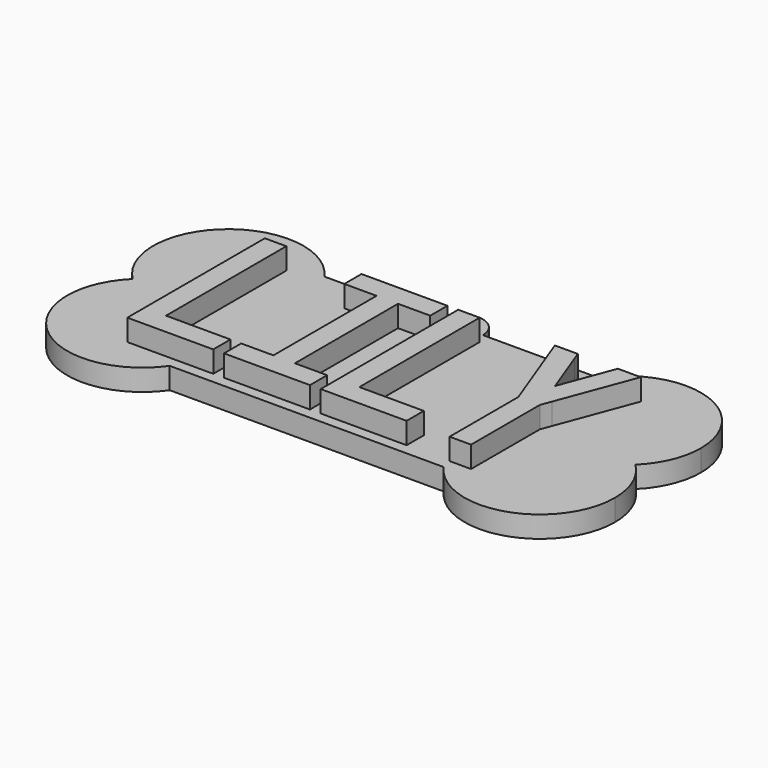
from build123d import *

# Parameters (mm, degrees)
F0_W     = 15
F0_H     = 35
F0_W_2   = 5
F0_H_2   = 5
F0_W_3   = 7.5
F0_H_3   = 30
F1_DEPTH = 5
F2_DEPTH = 10


with BuildPart() as f1:
    # F0 (on Top) → F1 (new body)
    with BuildSketch(Plane.XY):
        with BuildLine():
            Line((-90, 27.3205080757), (-90, 42.5))
            Line((-90, 42.5), (-85, 42.5))
            Line((-85, 42.5), (-76.6886116992, 42.5))
            ThreePointArc((-76.6886116992, 42.5), (-77.3619060553, 43.7799835832), (-78.1385933837, 45))
            Line((-78.1385933837, 45), (-92.5, 45))
            Line((-92.5, 45), (-92.5, 27.5))
            ThreePointArc((-92.5, 27.5), (-91.2467824061, 27.4550693399), (-90, 27.3205080757))
        make_face()
        with BuildLine():
            ThreePointArc((-78.1385933837, 45), (-77.3619060553, 43.7799835832), (-76.6886116992, 42.5))
            Line((-76.6886116992, 42.5), (-70, 42.5))
            Line((-70, 42.5), (-70, 7.5))
            Line((-70, 7.5), (-70, 2.5))
            Line((-70, 2.5), (-76.6886116992, 2.5))
            ThreePointArc((-76.6886116992, 2.5), (-77.3619060553, 1.2200164168), (-78.1385933837, 0))
            Line((-78.1385933837, 0), (-14.3614066163, 0))
            ThreePointArc((-14.3614066163, 0), (-15.1380939447, 1.2200164168), (-15.8113883008, 2.5))
            Line((-15.8113883008, 2.5), (-22.5, 2.5))
            Line((-22.5, 2.5), (-22.5, 22.5))
            Line((-22.5, 22.5), (-22.5, 42.5))
            Line((-22.5, 42.5), (-17.1599976592, 42.5))
            Line((-17.1599976592, 42.5), (-15.8113883008, 42.5))
            ThreePointArc((-15.8113883008, 42.5), (-15.1380939447, 43.7799835832), (-14.3614066163, 45))
            Line((-14.3614066163, 45), (-41.25, 45))
            ThreePointArc((-41.25, 45), (-41.4203708686, 43.7059047745), (-41.9198729811, 42.5))
            Line((-41.9198729811, 42.5), (-40, 42.5))
            Line((-40, 42.5), (-25, 42.5))
            Line((-25, 42.5), (-25, 7.5))
            Line((-25, 7.5), (-25, 2.5))
            Line((-25, 2.5), (-40, 2.5))
            Line((-40, 2.5), (-45, 2.5))
            Line((-45, 2.5), (-45, 7.5))
            Line((-45, 7.5), (-45, 40.1587708172))
            ThreePointArc((-45, 40.1587708172), (-46.25, 40), (-47.5, 40.1587708172))
            Line((-47.5, 40.1587708172), (-47.5, 37.5))
            Line((-47.5, 37.5), (-47.5, 7.5))
            Line((-47.5, 7.5), (-47.5, 2.5))
            Line((-47.5, 2.5), (-67.5, 2.5))
            Line((-67.5, 2.5), (-67.5, 7.5))
            Line((-67.5, 7.5), (-67.5, 37.5))
            Line((-67.5, 37.5), (-67.5, 42.5))
            Line((-67.5, 42.5), (-50.5801270189, 42.5))
            ThreePointArc((-50.5801270189, 42.5), (-51.0796291314, 43.7059047745), (-51.25, 45))
            Line((-51.25, 45), (-78.1385933837, 45))
        make_face()
        with BuildLine():
            Line((-90, 7.5), (-90, 17.6794919243))
            ThreePointArc((-90, 17.6794919243), (-91.2467824061, 17.5449306601), (-92.5, 17.5))
            Line((-92.5, 17.5), (-92.5, 0))
            Line((-92.5, 0), (-78.1385933837, 0))
            ThreePointArc((-78.1385933837, 0), (-77.3619060553, 1.2200164168), (-76.6886116992, 2.5))
            Line((-76.6886116992, 2.5), (-85, 2.5))
            Line((-85, 2.5), (-90, 2.5))
            Line((-90, 2.5), (-90, 7.5))
        make_face()
        with BuildLine():
            ThreePointArc((-104.7474487139, 22.5), (-99.1143782777, 26.201851746), (-92.5, 27.5))
            Line((-92.5, 27.5), (-92.5, 45))
            Line((-92.5, 45), (-78.1385933837, 45))
            ThreePointArc((-78.1385933837, 45), (-103.7995444379, 48.3630196998), (-104.7474487139, 22.5))
        make_face()
        with BuildLine():
            Line((-92.5, 17.5), (-92.5, 27.5))
            ThreePointArc((-92.5, 27.5), (-99.1143782777, 26.201851746), (-104.7474487139, 22.5))
            ThreePointArc((-104.7474487139, 22.5), (-99.1143782777, 18.798148254), (-92.5, 17.5))
        make_face()
        with BuildLine():
            Line((-92.5, 0), (-92.5, 17.5))
            ThreePointArc((-92.5, 17.5), (-99.1143782777, 18.798148254), (-104.7474487139, 22.5))
            ThreePointArc((-104.7474487139, 22.5), (-103.7995444379, -3.3630196998), (-78.1385933837, 0))
            Line((-78.1385933837, 0), (-92.5, 0))
        make_face()
        with BuildLine():
            ThreePointArc((-41.25, 45), (-46.25, 50), (-51.25, 45))
            Line((-51.25, 45), (-48.75, 45))
            ThreePointArc((-48.75, 45), (-46.25, 47.5), (-43.75, 45))
            Line((-43.75, 45), (-41.25, 45))
        make_face()
        with BuildLine():
            Line((-48.75, 45), (-51.25, 45))
            ThreePointArc((-51.25, 45), (-51.0796291314, 43.7059047745), (-50.5801270189, 42.5))
            Line((-50.5801270189, 42.5), (-47.5, 42.5))
            Line((-47.5, 42.5), (-47.5, 40.1587708172))
            ThreePointArc((-47.5, 40.1587708172), (-46.25, 40), (-45, 40.1587708172))
            Line((-45, 40.1587708172), (-45, 42.5))
            Line((-45, 42.5), (-41.9198729811, 42.5))
            ThreePointArc((-41.9198729811, 42.5), (-41.4203708686, 43.7059047745), (-41.25, 45))
            Line((-41.25, 45), (-43.75, 45))
            ThreePointArc((-43.75, 45), (-46.25, 42.5), (-48.75, 45))
        make_face()
        with BuildLine():
            ThreePointArc((-15.8113883008, 2.5), (-15.1380939447, 1.2200164168), (-14.3614066163, 0))
            Line((-14.3614066163, 0), (0, 0))
            Line((0, 0), (0, 17.5))
            ThreePointArc((0, 17.5), (-1.2532175939, 17.5449306601), (-2.5, 17.6794919243))
            Line((-2.5, 17.6794919243), (-2.5, 2.5))
            Line((-2.5, 2.5), (-10, 2.5))
            Line((-10, 2.5), (-15, 2.5))
            Line((-15, 2.5), (-15.8113883008, 2.5))
        make_face()
        with BuildLine():
            Line((0, 0), (-14.3614066163, 0))
            ThreePointArc((-14.3614066163, 0), (5.2404858655, -6.6969251029), (17.5, 10))
            ThreePointArc((17.5, 10), (16.1335109709, 16.7793675039), (12.2474487139, 22.5))
            ThreePointArc((12.2474487139, 22.5), (6.6143782777, 18.798148254), (0, 17.5))
            Line((0, 17.5), (0, 0))
        make_face()
        with BuildLine():
            ThreePointArc((17.5, 35), (5.2404858655, 51.6969251029), (-14.3614066163, 45))
            Line((-14.3614066163, 45), (0, 45))
            Line((0, 45), (0, 27.5))
            ThreePointArc((0, 27.5), (6.6143782777, 26.201851746), (12.2474487139, 22.5))
            ThreePointArc((12.2474487139, 22.5), (16.1335109709, 28.2206324961), (17.5, 35))
        make_face()
        with BuildLine():
            Line((0, 45), (-14.3614066163, 45))
            ThreePointArc((-14.3614066163, 45), (-15.1380939447, 43.7799835832), (-15.8113883008, 42.5))
            Line((-15.8113883008, 42.5), (-7.8400023408, 42.5))
            Line((-7.8400023408, 42.5), (-2.5, 42.5))
            Line((-2.5, 42.5), (-2.5, 27.3205080757))
            ThreePointArc((-2.5, 27.3205080757), (-1.2532175939, 27.4550693399), (0, 27.5))
            Line((0, 27.5), (0, 45))
        make_face()
        with BuildLine():
            Line((0, 27.5), (0, 17.5))
            ThreePointArc((0, 17.5), (6.6143782777, 18.798148254), (12.2474487139, 22.5))
            ThreePointArc((12.2474487139, 22.5), (6.6143782777, 26.201851746), (0, 27.5))
        make_face()
        with BuildLine():
            ThreePointArc((-2.5, 17.6794919243), (-1.2532175939, 17.5449306601), (0, 17.5))
            Line((0, 17.5), (0, 27.5))
            ThreePointArc((0, 27.5), (-1.2532175939, 27.4550693399), (-2.5, 27.3205080757))
            Line((-2.5, 27.3205080757), (-2.5, 22.5))
            Line((-2.5, 22.5), (-2.5, 17.6794919243))
        make_face()
        with BuildLine():
            Line((-2.5, 2.5), (-2.5, 17.6794919243))
            ThreePointArc((-2.5, 17.6794919243), (-6.4227385407, 18.7212276372), (-10, 20.6385933837))
            Line((-10, 20.6385933837), (-10, 2.5))
            Line((-10, 2.5), (-2.5, 2.5))
        make_face()
        with BuildLine():
            ThreePointArc((-10, 20.6385933837), (-6.4227385407, 18.7212276372), (-2.5, 17.6794919243))
            Line((-2.5, 17.6794919243), (-2.5, 22.5))
            Line((-2.5, 22.5), (-10, 22.5))
            Line((-10, 22.5), (-10, 20.6385933837))
        make_face()
        with BuildLine():
            ThreePointArc((-9.0767310941, 24.9620504158), (-5.9072630159, 26.4728335043), (-2.5, 27.3205080757))
            Line((-2.5, 27.3205080757), (-2.5, 42.5))
            Line((-2.5, 42.5), (-9.0767310941, 24.9620504158))
        make_face()
        with BuildLine():
            Line((-2.5, 22.5), (-2.5, 27.3205080757))
            ThreePointArc((-2.5, 27.3205080757), (-5.9072630159, 26.4728335043), (-9.0767310941, 24.9620504158))
            Line((-9.0767310941, 24.9620504158), (-10, 22.5))
            Line((-10, 22.5), (-2.5, 22.5))
        make_face()
        with BuildLine():
            ThreePointArc((-9.0767310941, 24.9620504158), (-10.7329205803, 23.822243516), (-12.2474487139, 22.5))
            Line((-12.2474487139, 22.5), (-10, 22.5))
            Line((-10, 22.5), (-9.0767310941, 24.9620504158))
        make_face()
        with BuildLine():
            Line((-10, 22.5), (-12.2474487139, 22.5))
            ThreePointArc((-12.2474487139, 22.5), (-11.1625916443, 21.5223686138), (-10, 20.6385933837))
            Line((-10, 20.6385933837), (-10, 22.5))
        make_face()
        with BuildLine():
            Line((-15, 19.0138781887), (-15, 2.5))
            Line((-15, 2.5), (-10, 2.5))
            Line((-10, 2.5), (-10, 20.6385933837))
            ThreePointArc((-10, 20.6385933837), (-11.1625916443, 21.5223686138), (-12.2474487139, 22.5))
            ThreePointArc((-12.2474487139, 22.5), (-13.7347779988, 20.8446241671), (-15, 19.0138781887))
        make_face()
        with BuildLine():
            Line((-15, 22.5), (-15, 19.0138781887))
            ThreePointArc((-15, 19.0138781887), (-13.7347779988, 20.8446241671), (-12.2474487139, 22.5))
            Line((-12.2474487139, 22.5), (-15, 22.5))
        make_face()
        with BuildLine():
            ThreePointArc((-15, 19.0138781887), (-17.4789145963, 10.8588041315), (-15.8113883008, 2.5))
            Line((-15.8113883008, 2.5), (-15, 2.5))
            Line((-15, 2.5), (-15, 19.0138781887))
        make_face()
        with BuildLine():
            Line((-22.5, 2.5), (-15.8113883008, 2.5))
            ThreePointArc((-15.8113883008, 2.5), (-17.4789145963, 10.8588041315), (-15, 19.0138781887))
            Line((-15, 19.0138781887), (-15, 22.5))
            Line((-15, 22.5), (-22.5, 22.5))
            Line((-22.5, 22.5), (-22.5, 2.5))
        make_face()
        Polygon((-22.5, 42.5), (-22.5, 22.5), (-15, 22.5), align=None)
        with BuildLine():
            Line((-2.5, 42.5), (-7.8400023408, 42.5))
            Line((-7.8400023408, 42.5), (-12.5, 30.0733395755))
            Line((-12.5, 30.0733395755), (-16.5165078198, 40.7840270951))
            ThreePointArc((-16.5165078198, 40.7840270951), (-17.0416463575, 31.0210190466), (-12.2474487139, 22.5))
            ThreePointArc((-12.2474487139, 22.5), (-10.7329205803, 23.822243516), (-9.0767310941, 24.9620504158))
            Line((-9.0767310941, 24.9620504158), (-2.5, 42.5))
        make_face()
        with BuildLine():
            Line((-16.5165078198, 40.7840270951), (-17.1599976592, 42.5))
            Line((-17.1599976592, 42.5), (-22.5, 42.5))
            Line((-22.5, 42.5), (-15, 22.5))
            Line((-15, 22.5), (-12.2474487139, 22.5))
            ThreePointArc((-12.2474487139, 22.5), (-17.0416463575, 31.0210190466), (-16.5165078198, 40.7840270951))
        make_face()
        with BuildLine():
            Line((-7.8400023408, 42.5), (-15.8113883008, 42.5))
            ThreePointArc((-15.8113883008, 42.5), (-16.1867031124, 41.6513639466), (-16.5165078198, 40.7840270951))
            Line((-16.5165078198, 40.7840270951), (-12.5, 30.0733395755))
            Line((-12.5, 30.0733395755), (-7.8400023408, 42.5))
        make_face()
        with BuildLine():
            ThreePointArc((-16.5165078198, 40.7840270951), (-16.1867031124, 41.6513639466), (-15.8113883008, 42.5))
            Line((-15.8113883008, 42.5), (-17.1599976592, 42.5))
            Line((-17.1599976592, 42.5), (-16.5165078198, 40.7840270951))
        make_face()
        with Locations((-32.5, 25)):
            Rectangle(F0_W, F0_H)
        with BuildLine():
            ThreePointArc((-45, 40.1587708172), (-43.224311168, 41.0193961398), (-41.9198729811, 42.5))
            Line((-41.9198729811, 42.5), (-45, 42.5))
            Line((-45, 42.5), (-45, 40.1587708172))
        make_face()
        with Locations((-42.5, 5)):
            Rectangle(F0_W_2, F0_H_2)
        with Locations((-32.5, 5)):
            Rectangle(F0_W, F0_H_2)
        Polygon((-60, 7.5), (-67.5, 7.5), (-67.5, 2.5), (-47.5, 2.5), (-47.5, 7.5), (-55, 7.5), align=None)
        with Locations((-51.25, 22.5)):
            Rectangle(F0_W_3, F0_H_3)
        with Locations((-57.5, 22.5)):
            Rectangle(F0_W_2, F0_H_3)
        with Locations((-63.75, 22.5)):
            Rectangle(F0_W_3, F0_H_3)
        with BuildLine():
            ThreePointArc((-47.5, 40.1587708172), (-49.275688832, 41.0193961398), (-50.5801270189, 42.5))
            Line((-50.5801270189, 42.5), (-67.5, 42.5))
            Line((-67.5, 42.5), (-67.5, 37.5))
            Line((-67.5, 37.5), (-60, 37.5))
            Line((-60, 37.5), (-55, 37.5))
            Line((-55, 37.5), (-47.5, 37.5))
            Line((-47.5, 37.5), (-47.5, 40.1587708172))
        make_face()
        with BuildLine():
            Line((-47.5, 42.5), (-50.5801270189, 42.5))
            ThreePointArc((-50.5801270189, 42.5), (-49.275688832, 41.0193961398), (-47.5, 40.1587708172))
            Line((-47.5, 40.1587708172), (-47.5, 42.5))
        make_face()
        with BuildLine():
            Line((-70, 42.5), (-76.6886116992, 42.5))
            ThreePointArc((-76.6886116992, 42.5), (-75.4273713907, 38.843872054), (-75, 35))
            ThreePointArc((-75, 35), (-76.3664890291, 28.2206324961), (-80.2525512861, 22.5))
            ThreePointArc((-80.2525512861, 22.5), (-76.3664890291, 16.7793675039), (-75, 10))
            ThreePointArc((-75, 10), (-75.0449306601, 8.7467824061), (-75.1794919243, 7.5))
            Line((-75.1794919243, 7.5), (-70, 7.5))
            Line((-70, 7.5), (-70, 42.5))
        make_face()
        with BuildLine():
            Line((-76.6886116992, 42.5), (-85, 42.5))
            Line((-85, 42.5), (-85, 25.8113883008))
            ThreePointArc((-85, 25.8113883008), (-82.4884189162, 24.3533356473), (-80.2525512861, 22.5))
            ThreePointArc((-80.2525512861, 22.5), (-76.3664890291, 28.2206324961), (-75, 35))
            ThreePointArc((-75, 35), (-75.4273713907, 38.843872054), (-76.6886116992, 42.5))
        make_face()
        with BuildLine():
            ThreePointArc((-80.2525512861, 22.5), (-82.4884189162, 20.6466643527), (-85, 19.1886116992))
            Line((-85, 19.1886116992), (-85, 7.5))
            Line((-85, 7.5), (-75.1794919243, 7.5))
            ThreePointArc((-75.1794919243, 7.5), (-75.0449306601, 8.7467824061), (-75, 10))
            ThreePointArc((-75, 10), (-76.3664890291, 16.7793675039), (-80.2525512861, 22.5))
        make_face()
        with BuildLine():
            ThreePointArc((-80.2525512861, 22.5), (-82.4884189162, 24.3533356473), (-85, 25.8113883008))
            Line((-85, 25.8113883008), (-85, 19.1886116992))
            ThreePointArc((-85, 19.1886116992), (-82.4884189162, 20.6466643527), (-80.2525512861, 22.5))
        make_face()
        with BuildLine():
            ThreePointArc((-85, 25.8113883008), (-87.4433844695, 26.7535261774), (-90, 27.3205080757))
            Line((-90, 27.3205080757), (-90, 17.6794919243))
            ThreePointArc((-90, 17.6794919243), (-87.4433844695, 18.2464738226), (-85, 19.1886116992))
            Line((-85, 19.1886116992), (-85, 25.8113883008))
        make_face()
        with BuildLine():
            Line((-85, 42.5), (-90, 42.5))
            Line((-90, 42.5), (-90, 27.3205080757))
            ThreePointArc((-90, 27.3205080757), (-87.4433844695, 26.7535261774), (-85, 25.8113883008))
            Line((-85, 25.8113883008), (-85, 42.5))
        make_face()
        with BuildLine():
            Line((-90, 17.6794919243), (-90, 27.3205080757))
            ThreePointArc((-90, 27.3205080757), (-91.2467824061, 27.4550693399), (-92.5, 27.5))
            Line((-92.5, 27.5), (-92.5, 17.5))
            ThreePointArc((-92.5, 17.5), (-91.2467824061, 17.5449306601), (-90, 17.6794919243))
        make_face()
        with BuildLine():
            ThreePointArc((-85, 19.1886116992), (-87.4433844695, 18.2464738226), (-90, 17.6794919243))
            Line((-90, 17.6794919243), (-90, 7.5))
            Line((-90, 7.5), (-85, 7.5))
            Line((-85, 7.5), (-85, 19.1886116992))
        make_face()
        with Locations((-87.5, 5)):
            Rectangle(F0_W_2, F0_H_2)
        with BuildLine():
            Line((-75.1794919243, 7.5), (-85, 7.5))
            Line((-85, 7.5), (-85, 2.5))
            Line((-85, 2.5), (-76.6886116992, 2.5))
            ThreePointArc((-76.6886116992, 2.5), (-75.7464738226, 4.9433844695), (-75.1794919243, 7.5))
        make_face()
        with BuildLine():
            Line((-70, 2.5), (-70, 7.5))
            Line((-70, 7.5), (-75.1794919243, 7.5))
            ThreePointArc((-75.1794919243, 7.5), (-75.7464738226, 4.9433844695), (-76.6886116992, 2.5))
            Line((-76.6886116992, 2.5), (-70, 2.5))
        make_face()
    extrude(amount=F1_DEPTH)

    # F0 (on Top) → F2 (join)
    with BuildSketch(Plane.XY):
        with BuildLine():
            Line((-85, 42.5), (-90, 42.5))
            Line((-90, 42.5), (-90, 27.3205080757))
            ThreePointArc((-90, 27.3205080757), (-87.4433844695, 26.7535261774), (-85, 25.8113883008))
            Line((-85, 25.8113883008), (-85, 42.5))
        make_face()
        with BuildLine():
            ThreePointArc((-85, 25.8113883008), (-87.4433844695, 26.7535261774), (-90, 27.3205080757))
            Line((-90, 27.3205080757), (-90, 17.6794919243))
            ThreePointArc((-90, 17.6794919243), (-87.4433844695, 18.2464738226), (-85, 19.1886116992))
            Line((-85, 19.1886116992), (-85, 25.8113883008))
        make_face()
        with BuildLine():
            ThreePointArc((-85, 19.1886116992), (-87.4433844695, 18.2464738226), (-90, 17.6794919243))
            Line((-90, 17.6794919243), (-90, 7.5))
            Line((-90, 7.5), (-85, 7.5))
            Line((-85, 7.5), (-85, 19.1886116992))
        make_face()
        with Locations((-87.5, 5)):
            Rectangle(F0_W_2, F0_H_2)
        with BuildLine():
            Line((-75.1794919243, 7.5), (-85, 7.5))
            Line((-85, 7.5), (-85, 2.5))
            Line((-85, 2.5), (-76.6886116992, 2.5))
            ThreePointArc((-76.6886116992, 2.5), (-75.7464738226, 4.9433844695), (-75.1794919243, 7.5))
        make_face()
        with BuildLine():
            Line((-70, 2.5), (-70, 7.5))
            Line((-70, 7.5), (-75.1794919243, 7.5))
            ThreePointArc((-75.1794919243, 7.5), (-75.7464738226, 4.9433844695), (-76.6886116992, 2.5))
            Line((-76.6886116992, 2.5), (-70, 2.5))
        make_face()
        with Locations((-57.5, 22.5)):
            Rectangle(F0_W_2, F0_H_3)
        with BuildLine():
            ThreePointArc((-47.5, 40.1587708172), (-49.275688832, 41.0193961398), (-50.5801270189, 42.5))
            Line((-50.5801270189, 42.5), (-67.5, 42.5))
            Line((-67.5, 42.5), (-67.5, 37.5))
            Line((-67.5, 37.5), (-60, 37.5))
            Line((-60, 37.5), (-55, 37.5))
            Line((-55, 37.5), (-47.5, 37.5))
            Line((-47.5, 37.5), (-47.5, 40.1587708172))
        make_face()
        with BuildLine():
            Line((-47.5, 42.5), (-50.5801270189, 42.5))
            ThreePointArc((-50.5801270189, 42.5), (-49.275688832, 41.0193961398), (-47.5, 40.1587708172))
            Line((-47.5, 40.1587708172), (-47.5, 42.5))
        make_face()
        Polygon((-60, 7.5), (-67.5, 7.5), (-67.5, 2.5), (-47.5, 2.5), (-47.5, 7.5), (-55, 7.5), align=None)
        with BuildLine():
            ThreePointArc((-45, 40.1587708172), (-43.224311168, 41.0193961398), (-41.9198729811, 42.5))
            Line((-41.9198729811, 42.5), (-45, 42.5))
            Line((-45, 42.5), (-45, 40.1587708172))
        make_face()
        with Locations((-42.5, 5)):
            Rectangle(F0_W_2, F0_H_2)
        with Locations((-32.5, 5)):
            Rectangle(F0_W, F0_H_2)
        with BuildLine():
            Line((-15, 19.0138781887), (-15, 2.5))
            Line((-15, 2.5), (-10, 2.5))
            Line((-10, 2.5), (-10, 20.6385933837))
            ThreePointArc((-10, 20.6385933837), (-11.1625916443, 21.5223686138), (-12.2474487139, 22.5))
            ThreePointArc((-12.2474487139, 22.5), (-13.7347779988, 20.8446241671), (-15, 19.0138781887))
        make_face()
        with BuildLine():
            Line((-2.5, 42.5), (-7.8400023408, 42.5))
            Line((-7.8400023408, 42.5), (-12.5, 30.0733395755))
            Line((-12.5, 30.0733395755), (-16.5165078198, 40.7840270951))
            ThreePointArc((-16.5165078198, 40.7840270951), (-17.0416463575, 31.0210190466), (-12.2474487139, 22.5))
            ThreePointArc((-12.2474487139, 22.5), (-10.7329205803, 23.822243516), (-9.0767310941, 24.9620504158))
            Line((-9.0767310941, 24.9620504158), (-2.5, 42.5))
        make_face()
        with BuildLine():
            Line((-16.5165078198, 40.7840270951), (-17.1599976592, 42.5))
            Line((-17.1599976592, 42.5), (-22.5, 42.5))
            Line((-22.5, 42.5), (-15, 22.5))
            Line((-15, 22.5), (-12.2474487139, 22.5))
            ThreePointArc((-12.2474487139, 22.5), (-17.0416463575, 31.0210190466), (-16.5165078198, 40.7840270951))
        make_face()
        with BuildLine():
            Line((-15, 22.5), (-15, 19.0138781887))
            ThreePointArc((-15, 19.0138781887), (-13.7347779988, 20.8446241671), (-12.2474487139, 22.5))
            Line((-12.2474487139, 22.5), (-15, 22.5))
        make_face()
        with BuildLine():
            Line((-10, 22.5), (-12.2474487139, 22.5))
            ThreePointArc((-12.2474487139, 22.5), (-11.1625916443, 21.5223686138), (-10, 20.6385933837))
            Line((-10, 20.6385933837), (-10, 22.5))
        make_face()
        with BuildLine():
            ThreePointArc((-9.0767310941, 24.9620504158), (-10.7329205803, 23.822243516), (-12.2474487139, 22.5))
            Line((-12.2474487139, 22.5), (-10, 22.5))
            Line((-10, 22.5), (-9.0767310941, 24.9620504158))
        make_face()
        with BuildLine():
            ThreePointArc((-47.5, 40.1587708172), (-49.275688832, 41.0193961398), (-50.5801270189, 42.5))
            Line((-50.5801270189, 42.5), (-67.5, 42.5))
            Line((-67.5, 42.5), (-67.5, 37.5))
            Line((-67.5, 37.5), (-60, 37.5))
            Line((-60, 37.5), (-55, 37.5))
            Line((-55, 37.5), (-47.5, 37.5))
            Line((-47.5, 37.5), (-47.5, 40.1587708172))
        make_face()
        with BuildLine():
            Line((-40, 42.5), (-41.9198729811, 42.5))
            ThreePointArc((-41.9198729811, 42.5), (-43.224311168, 41.0193961398), (-45, 40.1587708172))
            Line((-45, 40.1587708172), (-45, 7.5))
            Line((-45, 7.5), (-40, 7.5))
            Line((-40, 7.5), (-40, 42.5))
        make_face()
    extrude(amount=F2_DEPTH)


solid = f1.part
